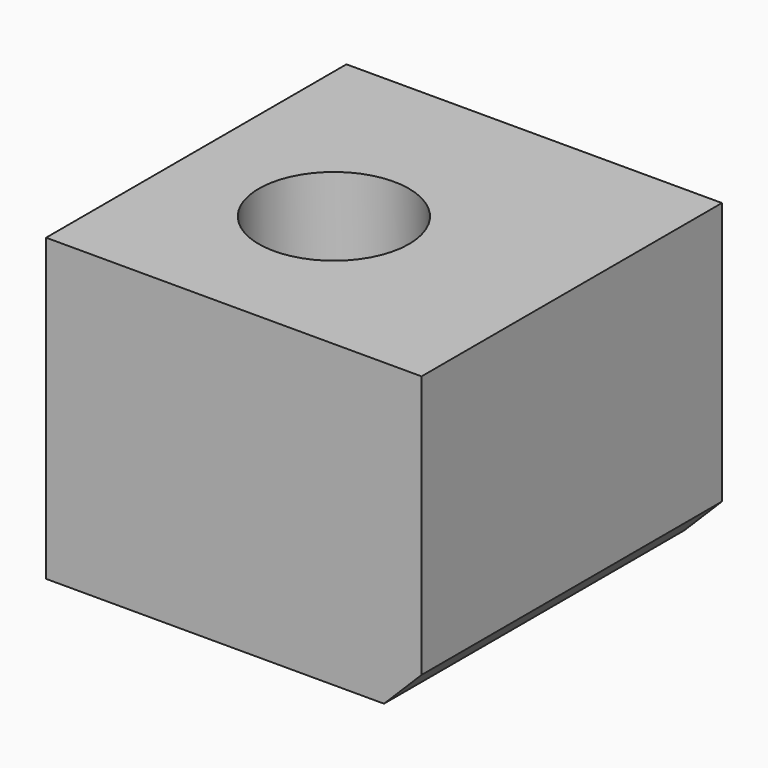
from build123d import *

# Parameters (mm, degrees)
F0_W     = 50
F0_H     = 40
F1_DEPTH = 50
F2_R     = 10
F3_DEPTH = 25
F4_SIZE  = 5


with BuildPart() as f1:
    # F0 (on Front) → F1 (new body)
    with BuildSketch(Plane.XZ):
        with Locations((-9.473613, 1.82123)):
            Rectangle(F0_W, F0_H)
    extrude(amount=F1_DEPTH)

    # F2 (on face) → F3 (cut)
    with BuildSketch(Plane.XY.offset(21.82123)):
        with Locations((-14.10244, -27.554378)):
            Circle(F2_R)
    extrude(amount=-F3_DEPTH, mode=Mode.SUBTRACT)

    # F4
    f4_edges = [f1.edges().sort_by_distance(p)[0] for p in [
        (15.526387, -25, -18.17877),
    ]]
    chamfer(f4_edges, length=F4_SIZE)


solid = f1.part
